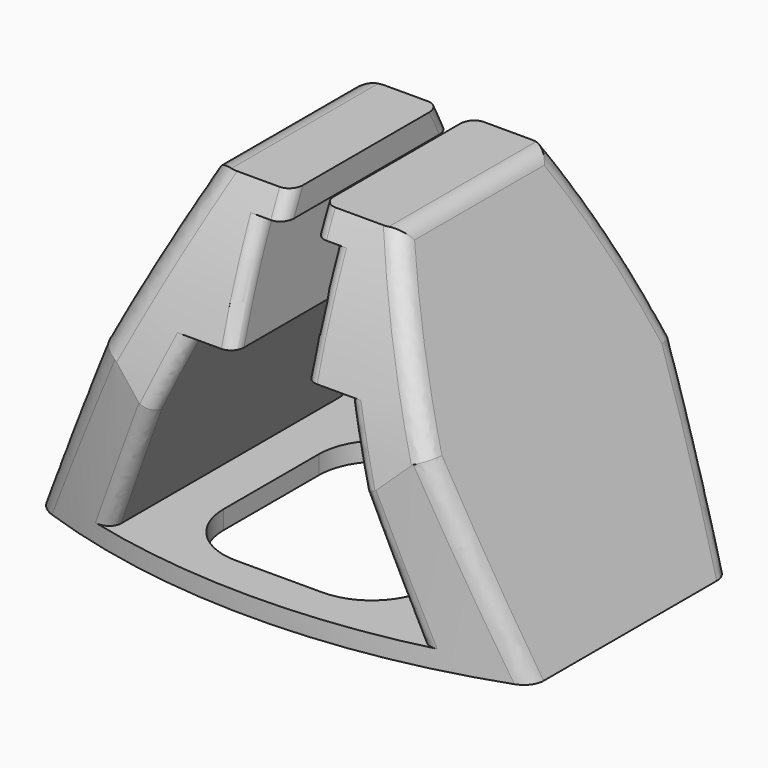
from build123d import *

# Parameters (mm, degrees)
PAD_DEPTH            = 125
POCKET_DEPTH         = 125.001
SKETCH002_W          = 11.5
SKETCH002_H          = 24.578663
POCKET001_DEPTH      = 125.001
SKETCH003_W          = 5
SKETCH003_H          = 32.052196
POCKET002_DEPTH      = 107
SKETCH004_R          = 2
POCKET003_DEPTH      = 5
SKETCH005_R          = 0.961437
POCKET004_DEPTH      = 52.001
SKETCH006_W          = 34
SKETCH006_H          = 39.253232
POCKET005_DEPTH      = 5
POCKET006_DEPTH      = 55.001
POCKET007_DEPTH      = 29
POCKET007_DEPTH_BACK = -100
FILLET_R             = 10
FILLET001_R          = 3
FILLET002_R          = 4
FILLET003_R          = 2


with BuildPart() as part:
    # Sketch001 → Pad (new body)
    with BuildSketch(Plane.XZ.offset(62.5)):
        Polygon((-40, 0), (-15, 55), (15, 55), (40, 0), align=None)
    extrude(amount=PAD_DEPTH)

    # Sketch (on Face6 of Pad) → Pocket (cut, through all)
    with BuildSketch(Plane.XZ.offset(187.5)):
        Polygon((-12.478369, 34), (12.478369, 34), (25, 3), (-25, 3), align=None)
    extrude(amount=-POCKET_DEPTH, mode=Mode.SUBTRACT)

    # Sketch002 (on Face5 of Pocket) → Pocket001 (cut, through all)
    with BuildSketch(Plane.XZ.offset(187.5)):
        with Locations((0, 38.710668)):
            Rectangle(SKETCH002_W, SKETCH002_H)
    extrude(amount=-POCKET001_DEPTH, mode=Mode.SUBTRACT)

    # Sketch003 (on Face5 of Pocket001) → Pocket002 (cut)
    with BuildSketch(Plane.XZ.offset(187.5)):
        with Locations((0.018413, 60.238085)):
            Rectangle(SKETCH003_W, SKETCH003_H)
    extrude(amount=-POCKET002_DEPTH, mode=Mode.SUBTRACT)

    # Sketch004 (on Face2 of Pocket002) → Pocket003 (cut)
    with BuildSketch(Plane(origin=(0, -62.5, 0), x_dir=(1, 0, 0), z_dir=(0, 0, -1))):
        with Locations((0, 62.5)):
            Circle(SKETCH004_R)
    extrude(amount=-POCKET003_DEPTH, mode=Mode.SUBTRACT)

    # Sketch005 (on Face11 of Pocket003) → Pocket004 (cut, through all)
    with BuildSketch(Plane(origin=(0, -62.5, 3), x_dir=(-1, 0, 0), z_dir=(0, 0, 1))):
        with Locations((0, 62.5)):
            Circle(SKETCH005_R)
    extrude(amount=POCKET004_DEPTH, mode=Mode.SUBTRACT)

    # Sketch006 (on Face2 of Pocket004) → Pocket005 (cut)
    with BuildSketch(Plane(origin=(0, -62.5, 0), x_dir=(1, 0, 0), z_dir=(0, 0, -1))):
        with Locations((-0.329715, 86.614521)):
            Rectangle(SKETCH006_W, SKETCH006_H)
        with Locations((0.329715, 38.385479)):
            Rectangle(SKETCH006_W, SKETCH006_H)
    extrude(amount=-POCKET005_DEPTH, mode=Mode.SUBTRACT)

    # Sketch007 (on Face2 of Pocket005) → Pocket006 (cut, through all)
    with BuildSketch(Plane(origin=(0, -62.5, 0), x_dir=(1, 0, 0), z_dir=(0, 0, -1))):
        with BuildLine():
            ThreePointArc((52.427846, 99.754427), (-5.41452, 112.562462), (-61.76048, 94.261699))
            Line((-61.76048, 94.261699), (-83.775513, 165.109879))
            Line((-83.775513, 165.109879), (98.795998, 148.591507))
            Line((98.795998, 148.591507), (52.427846, 99.754427))
        make_face()
        with BuildLine():
            ThreePointArc((-54.854885, 75.133329), (4.288626, 57.069378), (61.49071, 80.567946))
            Line((61.49071, 80.567946), (69.94494, 88.177826))
            Line((69.94494, 88.177826), (76.191933, -41.514706))
            Line((76.191933, -41.514706), (-83.775513, -41.514706))
            Line((-83.775513, -41.514706), (-54.854885, 75.133329))
        make_face()
    extrude(amount=-POCKET006_DEPTH, mode=Mode.SUBTRACT)

    # Sketch008 (on Face10 of Pocket006) → Pocket007 (cut, two sides)
    with BuildSketch(Plane(origin=(-5.75, -62.5, 0), x_dir=(0, 0, 1), z_dir=(1, 0, 0))) as pocket007_sk:
        with BuildLine():
            ThreePointArc((63.592086, 96.50758), (32.87468, 108.965958), (0, 113.211618))
            Line((-19.636009, 144.363113), (0, 113.211618))
            Line((75.706947, 138.856979), (-19.636009, 144.363113))
            Line((63.592086, 96.50758), (75.706947, 138.856979))
        make_face()
        with BuildLine():
            ThreePointArc((0, 57.348763), (32.097249, 61.799807), (61.772111, 74.817018))
            Line((61.772111, 74.817018), (94.833496, 17.432381))
            Line((94.833496, 17.432381), (-45.138058, 25.836464))
            Line((-45.138058, 25.836464), (0, 57.348763))
        make_face()
    extrude(amount=-POCKET007_DEPTH, mode=Mode.SUBTRACT)
    extrude(pocket007_sk.sketch, amount=-POCKET007_DEPTH_BACK, mode=Mode.SUBTRACT)

    # Fillet
    fillet_edges = [part.edges().sort_by_distance(p)[0] for p in [
        (-17.329715, -129.487905, 1.5),
        (-17.329715, -168.741137, 1.5),
        (16.670285, -168.741137, 1.5),
        (16.670285, -129.487905, 1.5),
    ]]
    fillet(fillet_edges, radius=FILLET_R)

    # Fillet001
    fillet001_edges = [part.edges().sort_by_distance(p)[0] for p in [
        (33.115845, -170.217063, 15.145141),
        (33.428516, -125.763803, 14.457265),
        (20.795333, -127.67522, 42.250267),
        (15, -148.448784, 55),
        (20.519076, -168.408045, 42.858032),
    ]]
    fillet(fillet001_edges, radius=FILLET001_R)

    # Fillet002
    fillet002_edges = [part.edges().sort_by_distance(p)[0] for p in [
        (-33.115845, -170.217063, 15.145141),
        (-20.519076, -168.408045, 42.858032),
        (-15, -148.448784, 55),
        (-33.428516, -125.763803, 14.457265),
        (-20.795333, -127.67522, 42.250267),
    ]]
    fillet(fillet002_edges, radius=FILLET002_R)

    # Fillet003
    fillet003_edges = [part.edges().sort_by_distance(p)[0] for p in [
        (2.518413, -132.431243, 53.009549),
        (-2.481587, -132.431243, 53.009549),
        (2.518413, -164.356251, 53.007609),
        (-2.481587, -164.356251, 53.007609),
        (5.75, -168.497193, 42.603215),
        (-5.75, -168.497193, 42.603215),
        (5.75, -127.820685, 42.627496),
        (-5.75, -127.820685, 42.627496),
        (-15.513213, -122.860985, 26.486589),
        (15.513213, -122.860985, 26.486589),
        (21.796186, -122.091056, 10.931733),
        (-21.796186, -122.091056, 10.931733),
        (21.186127, -173.183209, 12.442065),
        (14.912255, -172.65159, 27.974391),
        (-21.186127, -173.183209, 12.442065),
        (-14.912255, -172.65159, 27.974391),
    ]]
    fillet(fillet003_edges, radius=FILLET003_R)


solid = part.part
